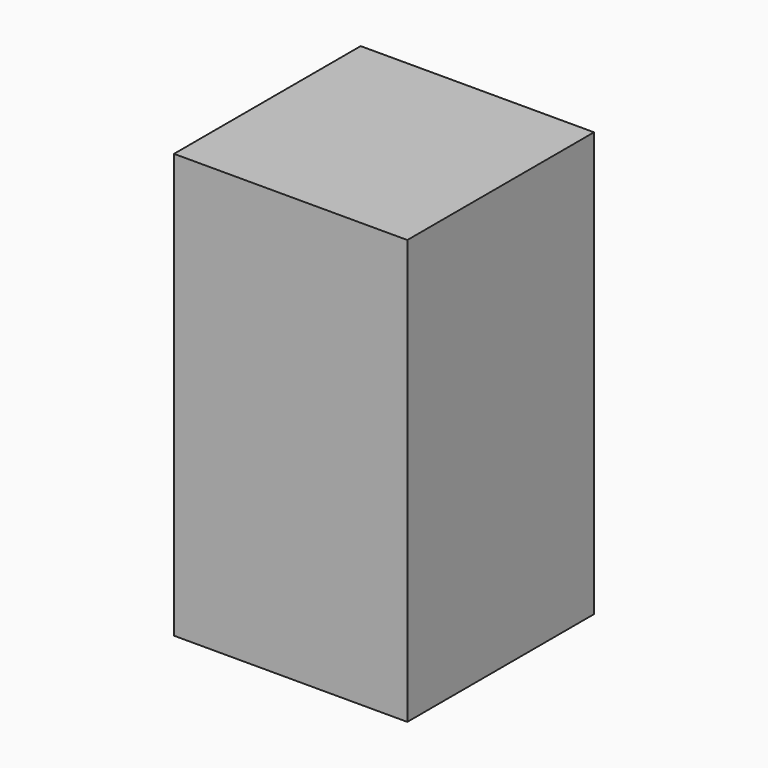
from build123d import *

# Parameters (mm, degrees)
F0_W     = 22
F0_H     = 22
F1_DEPTH = 40
F2_R     = 9.169913
F3_DEPTH = 30


with BuildPart() as f1:
    # F0 (on Top) → F1 (new body)
    with BuildSketch(Plane.XY):
        with Locations((-14.504899, 3.775477)):
            Rectangle(F0_W, F0_H)
    extrude(amount=-F1_DEPTH)

    # F2 (on face) → F3 (cut)
    with BuildSketch(Plane(origin=(0, 0, -40), x_dir=(1, 0, 0), z_dir=(0, 0, -1))):
        with Locations((-14.504899, -3.775477)):
            Circle(F2_R)
    extrude(amount=-F3_DEPTH, mode=Mode.SUBTRACT)


solid = f1.part
